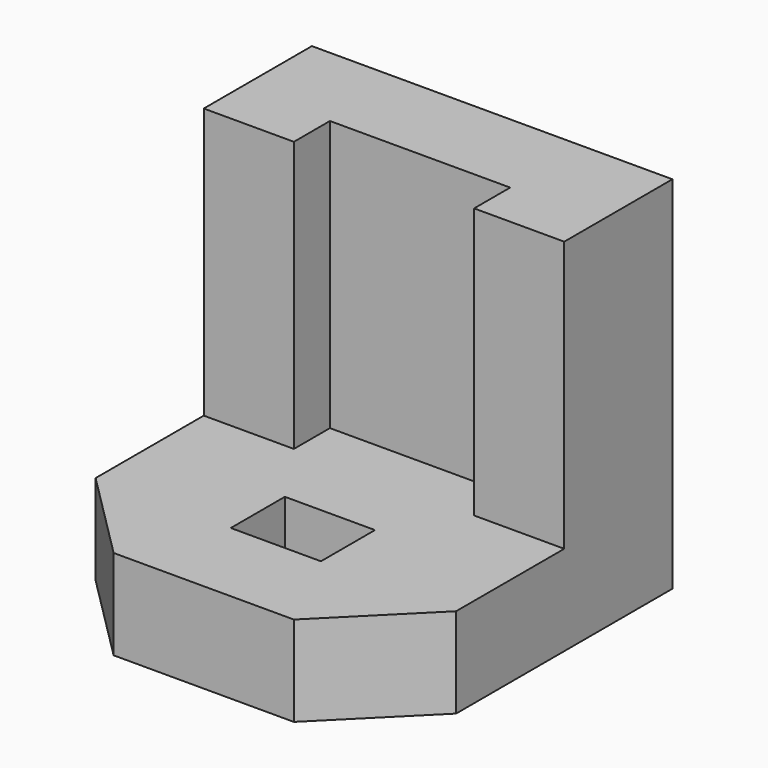
from build123d import *

# Parameters (mm, degrees)
F0_W      = 101.6
F0_H      = 101.6
F1_DEPTH  = 101.6
F2_W      = 50.8
F2_H      = 76.2
F3_DEPTH  = 76.2
F4_W      = 25.4
F4_H      = 76.2
F5_DEPTH  = 63.5
F7_DEPTH  = 25.4
F9_DEPTH  = 25.4
F10_W     = 25.4
F10_H     = 19.05
F11_DEPTH = 25.4


with BuildPart() as f1:
    # F0 (on Front) → F1 (new body)
    with BuildSketch(Plane.XZ):
        with Locations((3.801119, 6.039162)):
            Rectangle(F0_W, F0_H)
    extrude(amount=F1_DEPTH)

    # F2 (on face) → F3 (cut)
    with BuildSketch(Plane.XZ.offset(101.6)):
        with Locations((3.801119, 18.739162)):
            Rectangle(F2_W, F2_H)
    extrude(amount=-F3_DEPTH, mode=Mode.SUBTRACT)

    # F4 (on face) → F5 (cut)
    with BuildSketch(Plane.XZ.offset(101.6)):
        with Locations((41.901119, 18.739162)):
            Rectangle(F4_W, F4_H)
        with Locations((-34.298881, 18.739162)):
            Rectangle(F4_W, F4_H)
    extrude(amount=-F5_DEPTH, mode=Mode.SUBTRACT)

    # F6 (on face) → F7 (cut)
    with BuildSketch(Plane.XY.offset(-19.360838)):
        Polygon((29.201119, -101.6), (54.601119, -101.6), (54.601119, -76.2), align=None)
    extrude(amount=-F7_DEPTH, mode=Mode.SUBTRACT)

    # F8 (on face) → F9 (cut)
    with BuildSketch(Plane.XY.offset(-19.360838)):
        Polygon((-46.998881, -76.2), (-46.998881, -101.6), (-21.598881, -101.6), align=None)
    extrude(amount=-F9_DEPTH, mode=Mode.SUBTRACT)

    # F10 (on face) → F11 (cut)
    with BuildSketch(Plane.XY.offset(-19.360838)):
        with Locations((3.801119, -66.675)):
            Rectangle(F10_W, F10_H)
    extrude(amount=-F11_DEPTH, mode=Mode.SUBTRACT)


solid = f1.part
